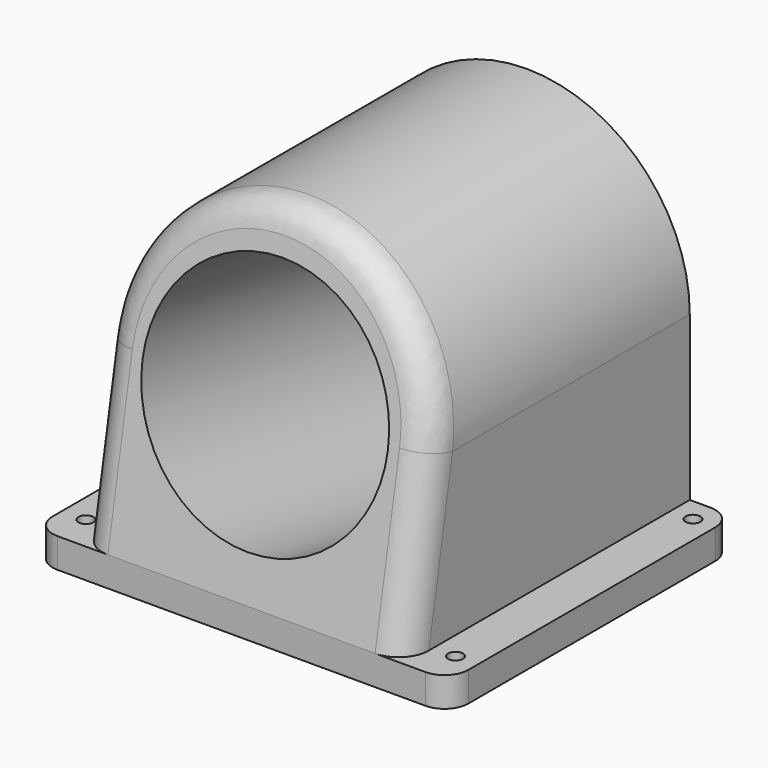
from build123d import *

# Parameters (mm, degrees)
F1_DEPTH  = 76.2
F3_DEPTH  = 69.851
F6_DEPTH  = 76.2
F4_R      = 26.25
F7_DEPTH  = 76.1115745433
F8_R      = 6.35
F9_R      = 5.08
F10_R     = 1.5875
F11_DEPTH = 25.4


with BuildPart() as f1:
    # F0 (on Front) → F1 (new body)
    with BuildSketch(Plane.XZ):
        with BuildLine():
            Line((-34.925, -34.925), (34.925, -34.925))
            Line((34.925, -34.925), (34.925, 0))
            ThreePointArc((34.925, 0), (0, 34.925), (-34.925, 0))
            Line((-34.925, 0), (-34.925, -34.925))
        make_face()
    extrude(amount=F1_DEPTH)

    # F2 (on face) → F3 (cut, through all)
    with BuildSketch(Plane.YZ.offset(34.925)):
        Polygon((-76.2, 35.1284742355), (-76.2, -34.925), (-63.5, 35.1284742355), align=None)
    extrude(amount=-F3_DEPTH, mode=Mode.SUBTRACT)

    # F5 (on face) → F6 (join)
    with BuildSketch(Plane(origin=(0, 0, 0), x_dir=(-1, 0, 0), z_dir=(0, 1, 0))):
        Polygon((-34.925, -34.925), (-44.45, -34.925), (-44.45, -41.275), (44.45, -41.275), (44.45, -34.925), (34.925, -34.925), align=None)
    extrude(amount=-F6_DEPTH)

    # F4 (on face) → F7 (cut, through all)
    with BuildSketch(Plane(origin=(0, -67.6452101377, 12.2634056073), x_dir=(1, 0, 0), z_dir=(0, -0.9839612366, 0.178382412))):
        with Locations((0, -12.4633015524)):
            Circle(F4_R)
    extrude(amount=-F7_DEPTH, mode=Mode.SUBTRACT)

    # F8
    f8_edges = [f1.edges().sort_by_distance(p)[0] for p in [
        (0, -63.536888, 34.925),
    ]]
    fillet(f8_edges, radius=F8_R)

    # F9
    f9_edges = [f1.edges().sort_by_distance(p)[0] for p in [
        (-44.45, -76.2, -38.1),
        (-44.45, 0, -38.1),
        (44.45, -76.2, -38.1),
        (44.45, 0, -38.1),
    ]]
    fillet(f9_edges, radius=F9_R)

    # F10 (on face) → F11 (cut)
    with BuildSketch(Plane.XY.offset(-34.925)):
        with Locations((-39.37, -5.08)):
            Circle(F10_R)
        with Locations((-39.37, -68.58)):
            Circle(F10_R)
        with Locations((39.6875, -68.58)):
            Circle(F10_R)
        with Locations((39.6875, -5.08)):
            Circle(F10_R)
    extrude(amount=-F11_DEPTH, mode=Mode.SUBTRACT)


solid = f1.part
